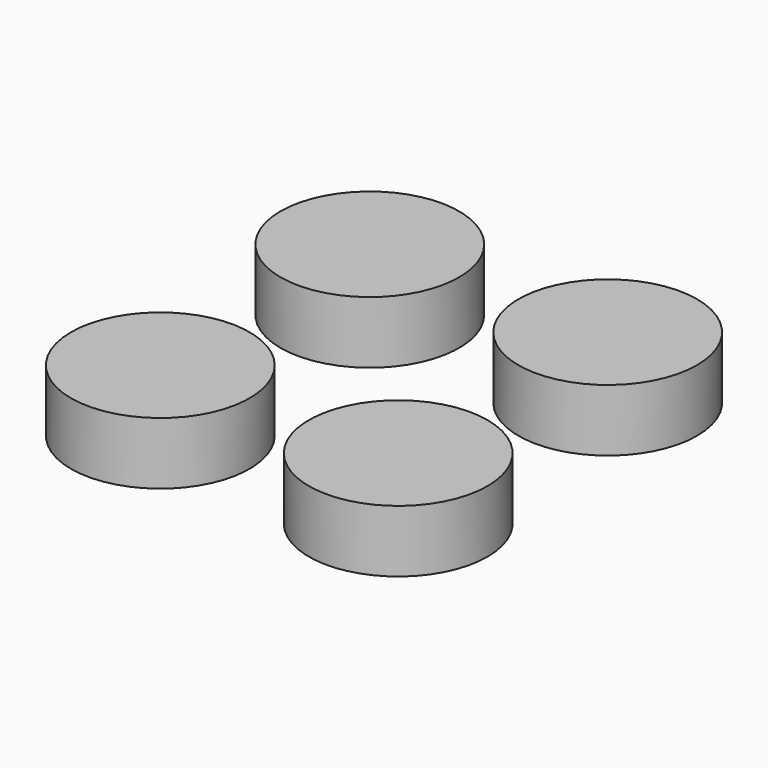
from build123d import *

# Parameters (mm, degrees)
F0_R     = 36.482578
F1_DEPTH = 25.4


with BuildPart() as f1:
    # F0 (on Top) → F1 (new body)
    with BuildSketch(Plane.XY):
        with Locations((48.56728, -53.464413)):
            Circle(F0_R)
    extrude(amount=F1_DEPTH)


with BuildPart() as f2_1:
    # F2: instance of F1
    add(f1.part.mirror(Plane.YZ))


with BuildPart() as f3_1:
    # F3: instance of F1
    add(f1.part.mirror(Plane.XZ))


with BuildPart() as f3_2:
    # F3: instance of F2_1
    add(f2_1.part.mirror(Plane.XZ))


solid = Compound([f1.part, f2_1.part, f3_1.part, f3_2.part])
